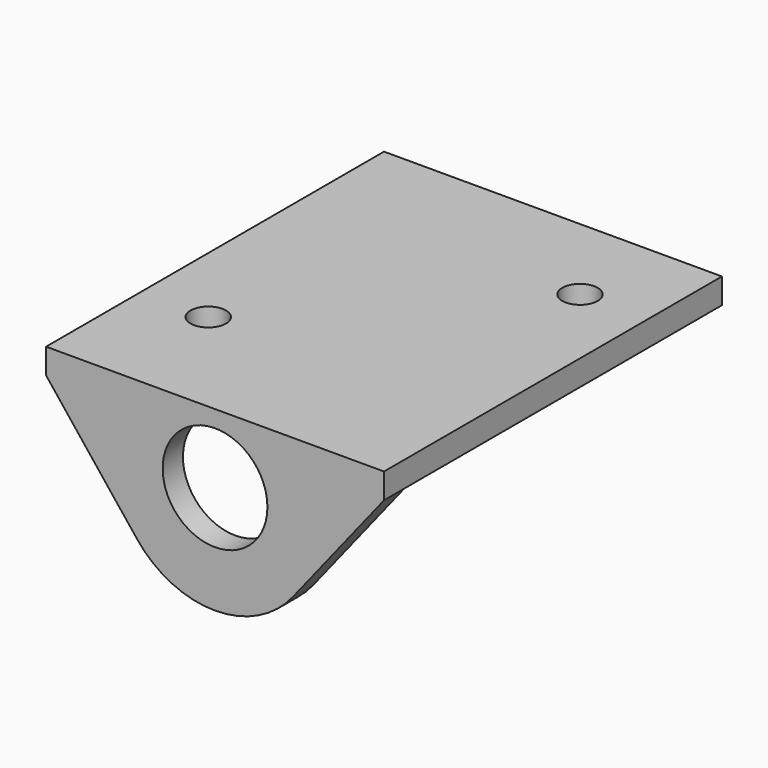
from build123d import *

# Parameters (mm, degrees)
F0_W     = 20
F0_H     = 25
F0_R     = 1.05
F1_DEPTH = 1.5
F2_W     = 20
F2_H     = 1.5
F3_DEPTH = 9
F4_R     = 3.1
F5_DEPTH = 30


with BuildPart() as f1:
    # F0 (on Top) → F1 (new body)
    with BuildSketch(Plane.XY):
        Rectangle(F0_W, F0_H)
        with Locations((-6, -5.5)):
            Circle(F0_R, mode=Mode.SUBTRACT)
        with Locations((6, 7)):
            Circle(F0_R, mode=Mode.SUBTRACT)
    extrude(amount=-F1_DEPTH)

    # F2 (on face) → F3 (join)
    with BuildSketch(Plane(origin=(0, 0, -1.5), x_dir=(1, 0, 0), z_dir=(0, 0, -1))):
        with Locations((0, 11.75)):
            Rectangle(F2_W, F2_H)
    extrude(amount=F3_DEPTH)

    # F4 (on face) → F5 (cut)
    with BuildSketch(Plane.XZ.offset(12.5)):
        with Locations((0, -4.1)):
            Circle(F4_R)
        with BuildLine():
            Line((-4.618965, -8.270854), (-10, -1.5))
            Line((-10, -1.5), (-10, -10.5))
            Line((-10, -10.5), (0, -10.5))
            ThreePointArc((0, -10.5), (-2.564368, -9.913569), (-4.618965, -8.270854))
        make_face()
        with BuildLine():
            ThreePointArc((4.618965, -8.270854), (2.564368, -9.913569), (0, -10.5))
            Line((0, -10.5), (10, -10.5))
            Line((10, -10.5), (10, -1.5))
            Line((10, -1.5), (4.618965, -8.270854))
        make_face()
    extrude(amount=-F5_DEPTH, mode=Mode.SUBTRACT)


solid = f1.part
